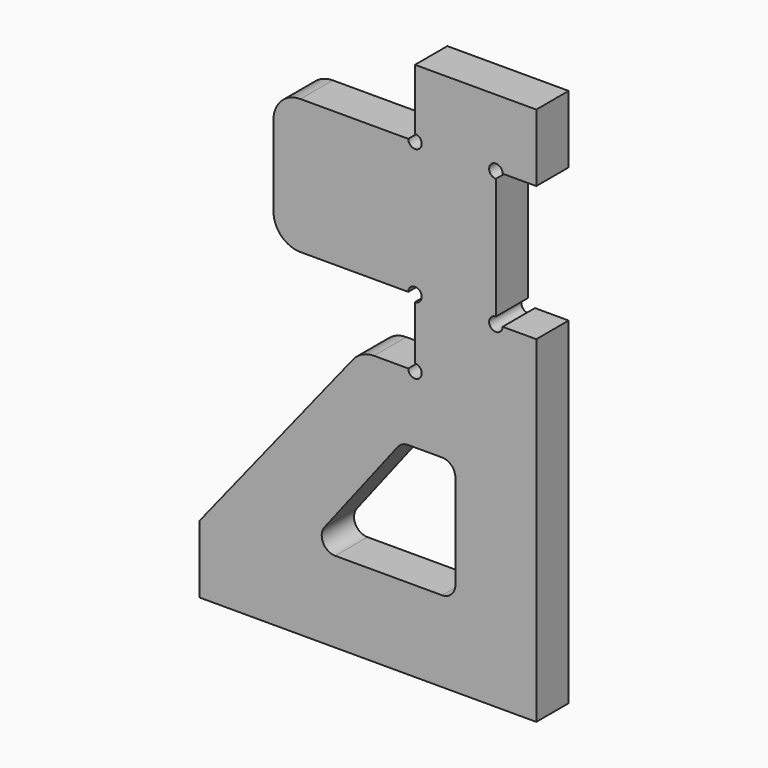
from build123d import *

# Parameters (mm, degrees)
F1_DEPTH = 30


with BuildPart() as f1:
    # F0 (on Front) → F1 (new body)
    with BuildSketch(Plane.XZ):
        with BuildLine():
            Line((47.193784, 170.781278), (47.193784, 120.781278))
            Line((47.193784, 120.781278), (297.193784, 120.781278))
            Line((297.193784, 120.781278), (297.193784, 370.781278))
            Line((297.193784, 370.781278), (272.193784, 370.781278))
            ThreePointArc((272.193784, 370.781278), (263.65825, 367.245744), (267.193784, 375.781278))
            Line((267.193784, 375.781278), (267.193784, 465.781278))
            ThreePointArc((267.193784, 465.781278), (263.65825, 474.316811), (272.193784, 470.781278))
            Line((272.193784, 470.781278), (297.193784, 470.781278))
            Line((297.193784, 470.781278), (297.193784, 520.781278))
            Line((297.193784, 520.781278), (207.193784, 520.781278))
            Line((207.193784, 520.781278), (207.193784, 475.781278))
            ThreePointArc((207.193784, 475.781278), (210.729318, 467.245744), (202.193784, 470.781278))
            Line((202.193784, 470.781278), (122.193784, 470.781278))
            ThreePointArc((122.193784, 470.781278), (108.051649, 464.923413), (102.193784, 450.781278))
            Line((102.193784, 450.781278), (102.193784, 390.781278))
            ThreePointArc((102.193784, 390.781278), (108.051649, 376.639142), (122.193784, 370.781278))
            Line((122.193784, 370.781278), (202.193784, 370.781278))
            ThreePointArc((202.193784, 370.781278), (210.729318, 374.316811), (207.193784, 365.781278))
            Line((207.193784, 365.781278), (207.193784, 325.781278))
            ThreePointArc((207.193784, 325.781278), (210.729318, 317.245744), (202.193784, 320.781278))
            Line((202.193784, 320.781278), (176.806281, 320.781278))
            ThreePointArc((176.806281, 320.781278), (168.142507, 318.807342), (161.188905, 313.275178))
            Line((161.188905, 313.275178), (47.193784, 170.781278))
        make_face()
        with BuildLine():
            Line((227.193784, 170.781278), (147.980179, 170.781278))
            ThreePointArc((147.980179, 170.781278), (130.022925, 181.975766), (132.167898, 203.027574))
            Line((132.167898, 203.027574), (186.381503, 273.027574))
            ThreePointArc((186.381503, 273.027574), (193.388273, 278.738531), (202.193784, 280.781278))
            Line((202.193784, 280.781278), (227.193784, 280.781278))
            ThreePointArc((227.193784, 280.781278), (241.33592, 274.923413), (247.193784, 260.781278))
            Line((247.193784, 260.781278), (247.193784, 190.781278))
            ThreePointArc((247.193784, 190.781278), (241.33592, 176.639142), (227.193784, 170.781278))
        make_face(mode=Mode.SUBTRACT)
        with BuildLine():
            ThreePointArc((132.167898, 203.027574), (130.022925, 181.975766), (147.980179, 170.781278))
            Line((147.980179, 170.781278), (227.193784, 170.781278))
            ThreePointArc((227.193784, 170.781278), (241.33592, 176.639142), (247.193784, 190.781278))
            Line((247.193784, 190.781278), (247.193784, 260.781278))
            ThreePointArc((247.193784, 260.781278), (241.33592, 274.923413), (227.193784, 280.781278))
            Line((227.193784, 280.781278), (202.193784, 280.781278))
            ThreePointArc((202.193784, 280.781278), (193.388273, 278.738531), (186.381503, 273.027574))
            Line((186.381503, 273.027574), (132.167898, 203.027574))
        make_face()
        with BuildLine():
            ThreePointArc((147.980179, 180.781278), (139.001552, 186.378522), (140.074039, 196.904426))
            Line((140.074039, 196.904426), (194.287644, 266.904426))
            ThreePointArc((194.287644, 266.904426), (197.791028, 269.759904), (202.193784, 270.781278))
            Line((202.193784, 270.781278), (227.193784, 270.781278))
            ThreePointArc((227.193784, 270.781278), (234.264852, 267.852345), (237.193784, 260.781278))
            Line((237.193784, 260.781278), (237.193784, 190.781278))
            ThreePointArc((237.193784, 190.781278), (234.264852, 183.71021), (227.193784, 180.781278))
            Line((227.193784, 180.781278), (147.980179, 180.781278))
        make_face(mode=Mode.SUBTRACT)
    extrude(amount=F1_DEPTH)


solid = f1.part
